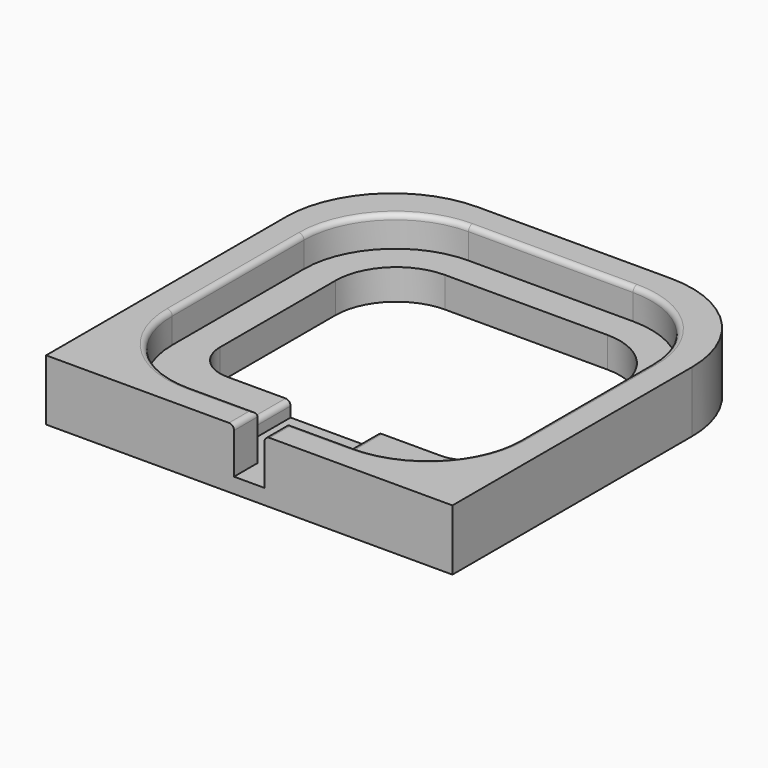
from build123d import *

# Parameters (mm, degrees)
F1_DEPTH = 3
F2_DEPTH = 6
F3_W     = 3
F3_H     = 2.9
F4_DEPTH = 1.5
F5_DEPTH = 3
F6_R     = 0.5


with BuildPart() as f1:
    # F0 (on Top) → F1 (new body)
    with BuildSketch(Plane.XY):
        with BuildLine():
            Line((-8.1, -17.1), (8.1, -17.1))
            ThreePointArc((8.1, -17.1), (14.463961, -14.463961), (17.1, -8.1))
            Line((17.1, -8.1), (17.1, 8.1))
            ThreePointArc((17.1, 8.1), (14.463961, 14.463961), (8.1, 17.1))
            Line((8.1, 17.1), (-8.1, 17.1))
            ThreePointArc((-8.1, 17.1), (-14.463961, 14.463961), (-17.1, 8.1))
            Line((-17.1, 8.1), (-17.1, -8.1))
            ThreePointArc((-17.1, -8.1), (-14.463961, -14.463961), (-8.1, -17.1))
        make_face()
        with BuildLine():
            ThreePointArc((14, -6.1), (12.974874, -8.574874), (10.5, -9.6))
            Line((10.5, -9.6), (-10.5, -9.6))
            ThreePointArc((-10.5, -9.6), (-12.974874, -8.574874), (-14, -6.1))
            Line((-14, -6.1), (-14, 0))
            Line((-14, 0), (-14, 8.1))
            ThreePointArc((-14, 8.1), (-12.242641, 12.342641), (-8, 14.1))
            Line((-8, 14.1), (8, 14.1))
            ThreePointArc((8, 14.1), (12.242641, 12.342641), (14, 8.1))
            Line((14, 8.1), (14, 0))
            Line((14, 0), (14, -6.1))
        make_face(mode=Mode.SUBTRACT)
    extrude(amount=F1_DEPTH)

    # F0 (on Top) → F2 (join)
    with BuildSketch(Plane.XY):
        with BuildLine():
            Line((-20, -20), (20, -20))
            Line((20, -20), (20, 9.5))
            ThreePointArc((20, 9.5), (16.924621, 16.924621), (9.5, 20))
            Line((9.5, 20), (-9.5, 20))
            ThreePointArc((-9.5, 20), (-16.924621, 16.924621), (-20, 9.5))
            Line((-20, 9.5), (-20, -20))
        make_face()
        with BuildLine():
            ThreePointArc((17.1, -8.1), (14.463961, -14.463961), (8.1, -17.1))
            Line((8.1, -17.1), (-8.1, -17.1))
            ThreePointArc((-8.1, -17.1), (-14.463961, -14.463961), (-17.1, -8.1))
            Line((-17.1, -8.1), (-17.1, 8.1))
            ThreePointArc((-17.1, 8.1), (-14.463961, 14.463961), (-8.1, 17.1))
            Line((-8.1, 17.1), (8.1, 17.1))
            ThreePointArc((8.1, 17.1), (14.463961, 14.463961), (17.1, 8.1))
            Line((17.1, 8.1), (17.1, -8.1))
        make_face(mode=Mode.SUBTRACT)
    extrude(amount=F2_DEPTH)

    # F3 (on face) → F4 (cut)
    with BuildSketch(Plane.XY.offset(3)):
        Polygon((1.5, -17.1), (4.25, -17.1), (4.25, -9.6), (-4.25, -9.6), (-4.25, -17.1), (-1.5, -17.1), align=None)
        with Locations((0, -18.55)):
            Rectangle(F3_W, F3_H)
    extrude(amount=-F4_DEPTH, mode=Mode.SUBTRACT)

    # F3 (on face) → F5 (cut, through all)
    with BuildSketch(Plane.XY.offset(3)):
        with Locations((0, -18.55)):
            Rectangle(F3_W, F3_H)
    extrude(amount=F5_DEPTH, mode=Mode.SUBTRACT)

    # F6
    f6_edges = [f1.edges().sort_by_distance(p)[0] for p in [
        (-14.463961, 14.463961, 6),
        (-1.5, -18.55, 6),
        (1.5, -18.55, 6),
        (-4.25, -13.35, 3),
        (4.25, -13.35, 3),
    ]]
    fillet(f6_edges, radius=F6_R)


solid = f1.part
